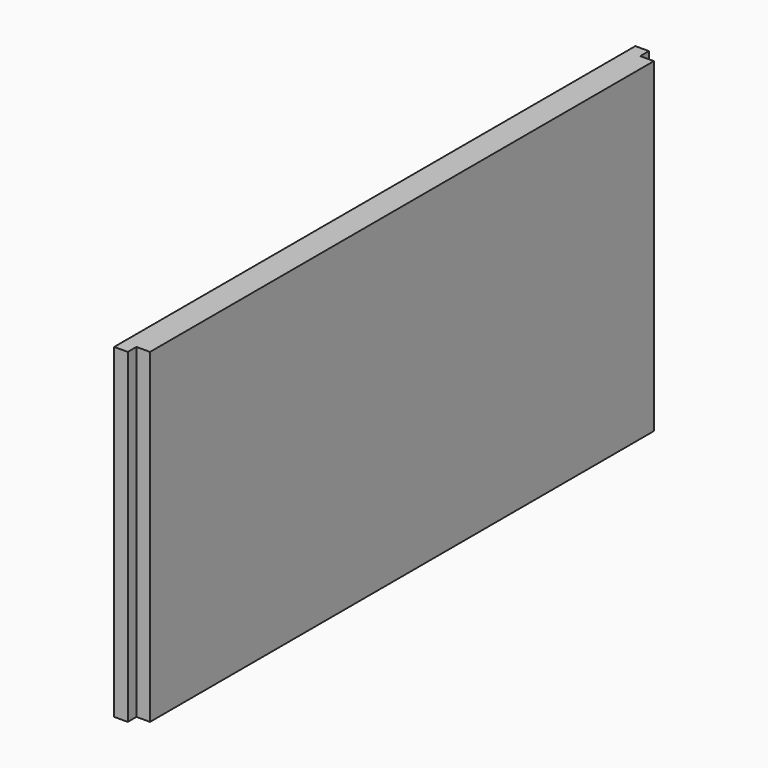
from build123d import *

# Parameters (mm, degrees)
F0_W     = 152.4
F0_H     = 76.2
F1_DEPTH = 6.35
F2_W     = 3.175
F2_H     = 2.54
F3_DEPTH = 152.4
F4_W     = 3.175
F4_H     = 2.54
F5_DEPTH = 152.4


with BuildPart() as f1:
    # F0 (on Right) → F1 (new body)
    with BuildSketch(Plane.YZ):
        Rectangle(F0_W, F0_H)
    extrude(amount=F1_DEPTH)

    # F2 (on face) → F3 (cut)
    with BuildSketch(Plane(origin=(0, 0, -38.1), x_dir=(1, 0, 0), z_dir=(0, 0, -1))):
        with Locations((4.7625, 74.93)):
            Rectangle(F2_W, F2_H)
    extrude(amount=-F3_DEPTH, mode=Mode.SUBTRACT)

    # F4 (on face) → F5 (cut)
    with BuildSketch(Plane(origin=(0, 0, -38.1), x_dir=(1, 0, 0), z_dir=(0, 0, -1))):
        with Locations((4.7625, -74.93)):
            Rectangle(F4_W, F4_H)
    extrude(amount=-F5_DEPTH, mode=Mode.SUBTRACT)


solid = f1.part
